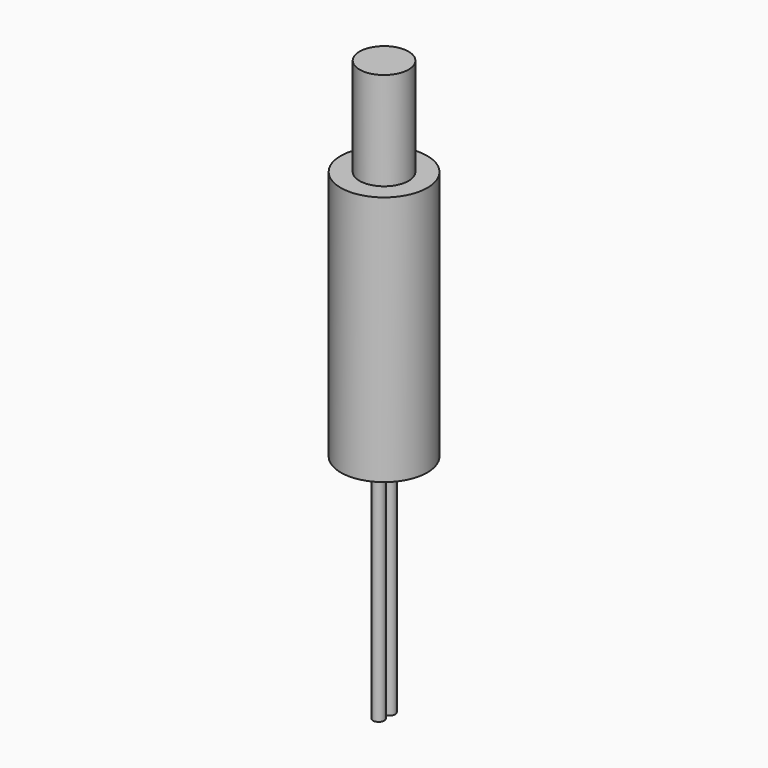
from build123d import *

# Parameters (mm, degrees)
F0_R     = 2.7305
F1_DEPTH = 10.922
F0_R_2   = 4.826
F2_DEPTH = 27.94
F3_R     = 0.635
F4_DEPTH = 25.4


with BuildPart() as f1:
    # F0 (on Top) → F1 (new body)
    with BuildSketch(Plane.XY):
        Circle(F0_R)
    extrude(amount=F1_DEPTH)

    # F0 (on Top) → F2 (join)
    with BuildSketch(Plane.XY):
        Circle(F0_R_2)
        Circle(F0_R, mode=Mode.SUBTRACT)
        Circle(F0_R)
    extrude(amount=-F2_DEPTH)


with BuildPart() as f4:
    # F3 (on face) → F4 (new body)
    with BuildSketch(Plane(origin=(0, 0, -27.94), x_dir=(1, 0, 0), z_dir=(0, 0, -1))):
        with Locations((0, -0.762)):
            Circle(F3_R)
        with Locations((0, 0.762)):
            Circle(F3_R)
    extrude(amount=F4_DEPTH)


solid = Compound([f1.part, f4.part])
